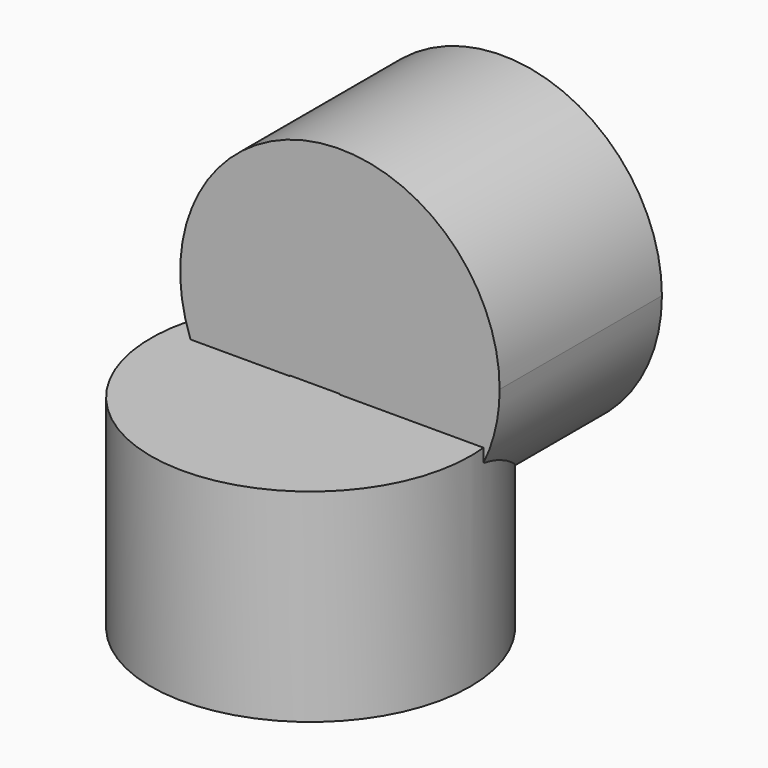
from build123d import *

# Parameters (mm, degrees)
F0_R     = 20
F1_DEPTH = 25.4
F3_DEPTH = 25.4


with BuildPart() as f1:
    # F0 (on Top) → F1 (new body)
    with BuildSketch(Plane.XY):
        with Locations((27.235515, -27.599446)):
            Circle(F0_R)
    extrude(amount=F1_DEPTH)

    # F2 (on Front) → F3 (join)
    with BuildSketch(Plane.XZ):
        with BuildLine():
            Line((29.06899, 25.478564), (29.06899, 12.487937))
            ThreePointArc((29.06899, 12.487937), (43.262291, 18.317674), (49.148182, 32.48778))
            ThreePointArc((49.148182, 32.48778), (17.44633, 48.70711), (22.841516, 13.50816))
            Line((22.841516, 13.50816), (22.841516, 25.478564))
            Line((22.841516, 25.478564), (29.06899, 25.478564))
        make_face()
    extrude(amount=F3_DEPTH)


solid = f1.part
